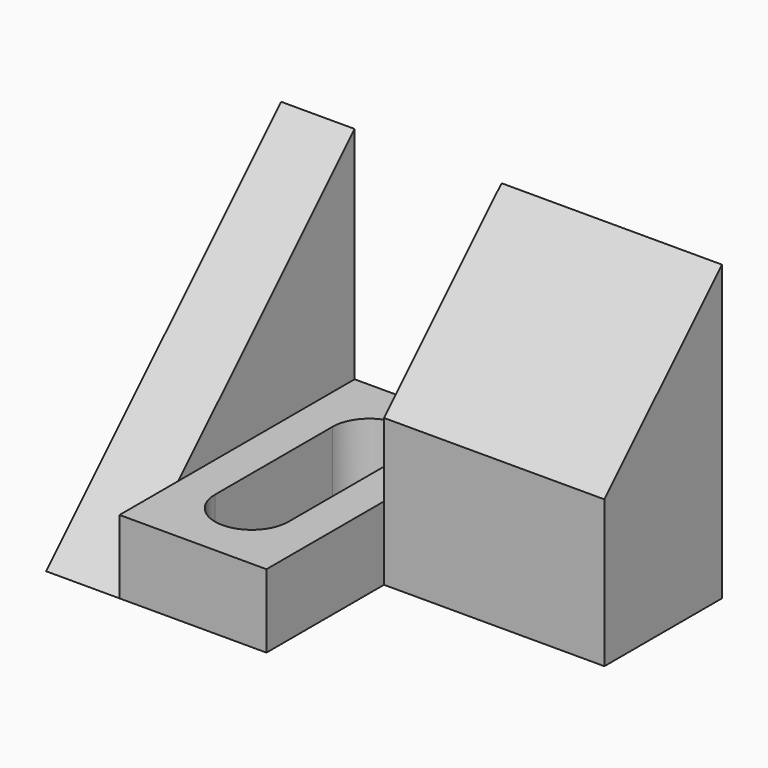
from build123d import *

# Parameters (mm, degrees)
F1_DEPTH = 19.05
F2_DEPTH = 19.05
F3_W     = 12.7
F3_H     = 19.05
F4_DEPTH = 25.4
F6_DEPTH = 6.35
F8_DEPTH = 6.35


with BuildPart() as f1:
    # F0 (on Right) → F1 (new body, symmetric)
    with BuildSketch(Plane.YZ):
        Polygon((-12.7, 0), (0, 0), (0, 25.4), (-12.7, 12.7), (-12.7, 6.35), align=None)
        Polygon((-25.4, 0), (-12.7, 0), (-12.7, 6.35), (-19.05, 6.35), align=None)
        Polygon((-12.7, 6.35), (-12.7, 12.7), (-19.05, 6.35), align=None)
        Polygon((-25.4, 6.35), (-25.4, 0), (-19.05, 6.35), align=None)
    extrude(amount=F1_DEPTH, both=True)

    # F0 (on Right) → F2 (cut)
    with BuildSketch(Plane.YZ):
        Polygon((-12.7, 6.35), (-12.7, 12.7), (-19.05, 6.35), align=None)
        Polygon((-25.4, 6.35), (-25.4, 0), (-19.05, 6.35), align=None)
        Polygon((-25.4, 0), (-12.7, 0), (-12.7, 6.35), (-19.05, 6.35), align=None)
    extrude(amount=F2_DEPTH, mode=Mode.SUBTRACT)

    # F3 (on face) → F4 (cut)
    with BuildSketch(Plane(origin=(0, 0, 0), x_dir=(-1, 0, 0), z_dir=(0, 1, 0))):
        with Locations((6.35, 15.875)):
            Rectangle(F3_W, F3_H)
    extrude(amount=-F4_DEPTH, mode=Mode.SUBTRACT)

    # F5 (on face) → F6 (cut)
    with BuildSketch(Plane(origin=(-19.05, 0, 0), x_dir=(0, -1, 0), z_dir=(-1, 0, 0))):
        Polygon((25.4, 6.35), (19.05, 6.35), (25.4, 0), align=None)
    extrude(amount=-F6_DEPTH, mode=Mode.SUBTRACT)

    # F7 (on face) → F8 (cut, through all)
    with BuildSketch(Plane.XY.offset(6.35)):
        with BuildLine():
            ThreePointArc((-3.175, -6.35), (-6.35, -3.175), (-9.525, -6.35))
            Line((-9.525, -6.35), (-9.525, -19.05))
            ThreePointArc((-9.525, -19.05), (-6.35, -22.225), (-3.175, -19.05))
            Line((-3.175, -19.05), (-3.175, -6.35))
        make_face()
    extrude(amount=-F8_DEPTH, mode=Mode.SUBTRACT)


solid = f1.part
